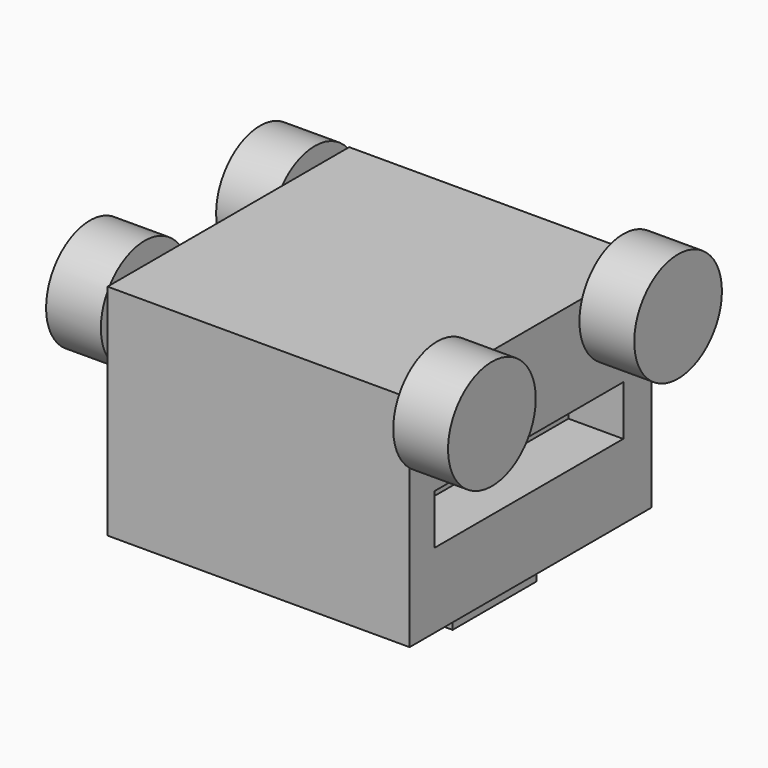
from build123d import *

# Parameters (mm, degrees)
F0_W      = 139.999974
F0_H      = 139.999974
F1_DEPTH  = 101.6
F2_W      = 26.5
F2_H      = 48.5
F4_DEPTH  = 17.5
F3_W      = 53.4
F3_H      = 68
F5_DEPTH  = 25
F6_W      = 109.352451
F6_H      = 23.150146
F7_DEPTH  = 25.4
F8_W      = 126.269319
F8_H      = 30.891789
F9_DEPTH  = 25.4
F10_R     = 25.4
F11_DEPTH = 25.4
F12_R     = 25.4
F13_DEPTH = 25.4


with BuildPart() as f1:
    # F0 (on Top) → F1 (new body)
    with BuildSketch(Plane.XY):
        Rectangle(F0_W, F0_H)
    extrude(amount=F1_DEPTH)

    # F3 (on face) → F5 (join)
    with BuildSketch(Plane.XY):
        with Locations((-28.023809, 3.412007)):
            Rectangle(F3_W, F3_H)
    extrude(amount=-F5_DEPTH)

    # F6 (on face) → F7 (cut)
    with BuildSketch(Plane.YZ.offset(69.999987)):
        with Locations((-0.887072, 46.249717)):
            Rectangle(F6_W, F6_H)
    extrude(amount=-F7_DEPTH, mode=Mode.SUBTRACT)

    # F8 (on face) → F9 (cut)
    with BuildSketch(Plane(origin=(-69.999987, 0, 0), x_dir=(0, -1, 0), z_dir=(-1, 0, 0))):
        with Locations((-3.065023, 43.506295)):
            Rectangle(F8_W, F8_H)
    extrude(amount=-F9_DEPTH, mode=Mode.SUBTRACT)

    # F10 (on face) → F11 (join)
    with BuildSketch(Plane.YZ.offset(69.999987)):
        with Locations((-54.074091, 92.881314)):
            Circle(F10_R)
        with Locations((53.789154, 92.881314)):
            Circle(F10_R)
    extrude(amount=F11_DEPTH)

    # F12 (on face) → F13 (join)
    with BuildSketch(Plane(origin=(-69.999987, 0, 0), x_dir=(0, -1, 0), z_dir=(-1, 0, 0))):
        with Locations((-50.042018, 84.777839)):
            Circle(F12_R)
        with Locations((48.465647, 86.206302)):
            Circle(F12_R)
    extrude(amount=F13_DEPTH)


with BuildPart() as f4:
    # F2 (on face) → F4 (new body)
    with BuildSketch(Plane.XY):
        with Locations((39.446943, 0.795291)):
            Rectangle(F2_W, F2_H)
    extrude(amount=-F4_DEPTH)


solid = Compound([f1.part, f4.part])
